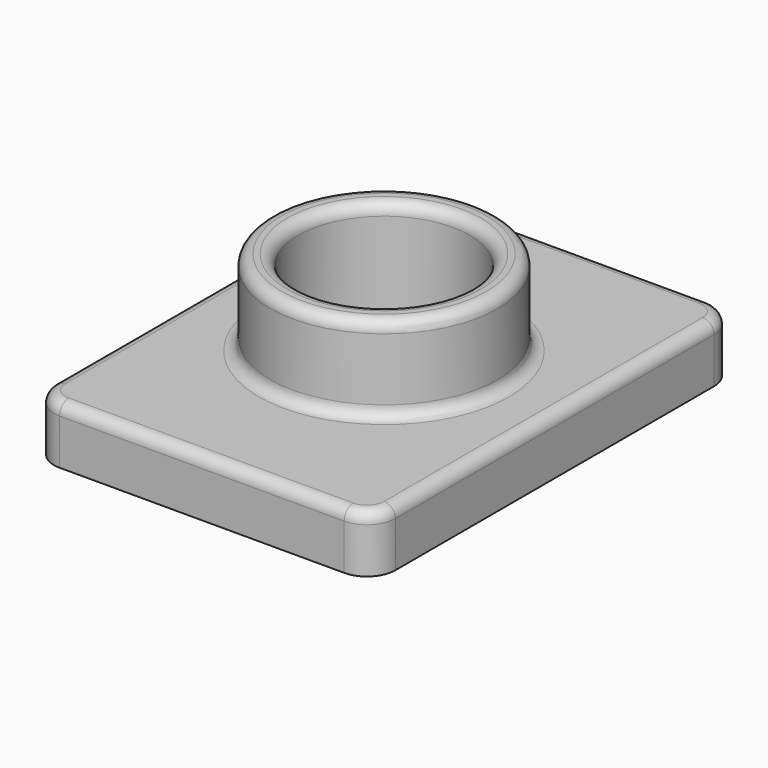
from build123d import *

# Parameters (mm, degrees)
F0_R     = 15
F1_DEPTH = 10
F2_R     = 20
F2_R_2   = 15
F3_DEPTH = 15
F4_R     = 2


with BuildPart() as f1:
    # F0 (on Top) → F1 (new body)
    with BuildSketch(Plane.XY):
        with BuildLine():
            Line((-25, -40), (25, -40))
            ThreePointArc((25, -40), (28.535534, -38.535534), (30, -35))
            Line((30, -35), (30, 35))
            ThreePointArc((30, 35), (28.535534, 38.535534), (25, 40))
            Line((25, 40), (-25, 40))
            ThreePointArc((-25, 40), (-28.535534, 38.535534), (-30, 35))
            Line((-30, 35), (-30, -35))
            ThreePointArc((-30, -35), (-28.535534, -38.535534), (-25, -40))
        make_face()
        Circle(F0_R, mode=Mode.SUBTRACT)
    extrude(amount=F1_DEPTH)

    # F2 (on face) → F3 (join)
    with BuildSketch(Plane.XY.offset(10)):
        Circle(F2_R)
        Circle(F2_R_2, mode=Mode.SUBTRACT)
    extrude(amount=F3_DEPTH)

    # F4
    f4_edges = [f1.edges().sort_by_distance(p)[0] for p in [
        (-20, 0, 25),
        (-15, 0, 25),
        (-28.535534, -38.535534, 10),
        (-30, 0, 10),
        (0, -40, 10),
        (-28.535534, 38.535534, 10),
        (28.535534, -38.535534, 10),
        (0, 40, 10),
        (30, 0, 10),
        (28.535534, 38.535534, 10),
        (-20, 0, 10),
    ]]
    fillet(f4_edges, radius=F4_R)


solid = f1.part
